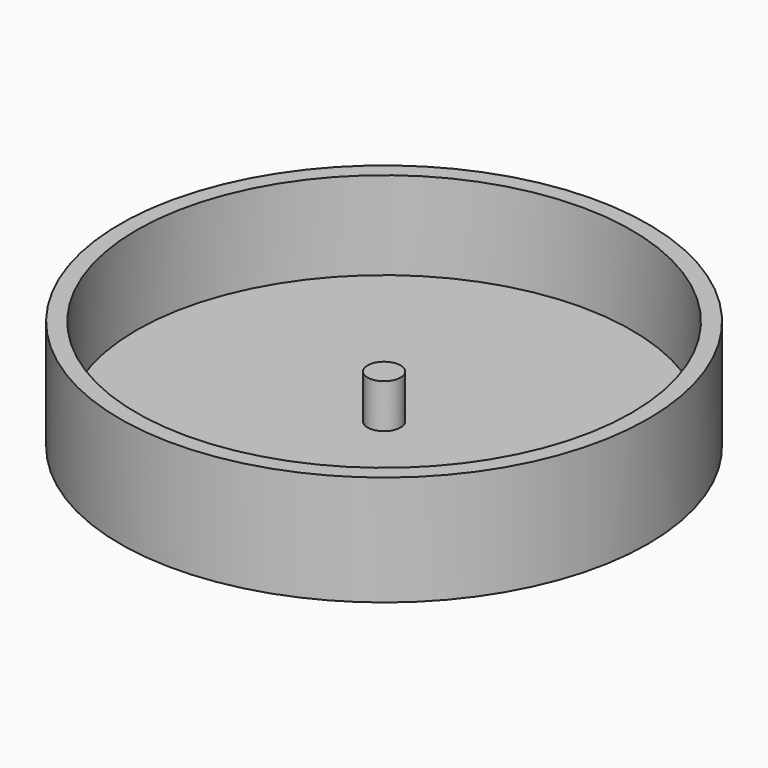
from build123d import *

# Parameters (mm, degrees)
F0_R     = 11.75
F1_DEPTH = 1
F2_R     = 12
F2_R_2   = 11.25
F3_DEPTH = 5
F4_R     = 0.75
F5_DEPTH = 3


with BuildPart() as f1:
    # F0 (on Top) → F1 (new body)
    with BuildSketch(Plane.XY):
        Circle(F0_R)
    extrude(amount=F1_DEPTH)

    # F2 (on Top) → F3 (join)
    with BuildSketch(Plane.XY):
        Circle(F2_R)
        Circle(F2_R_2, mode=Mode.SUBTRACT)
    extrude(amount=F3_DEPTH)

    # F4 (on Top) → F5 (join)
    with BuildSketch(Plane.XY):
        Circle(F4_R)
    extrude(amount=F5_DEPTH)


solid = f1.part
